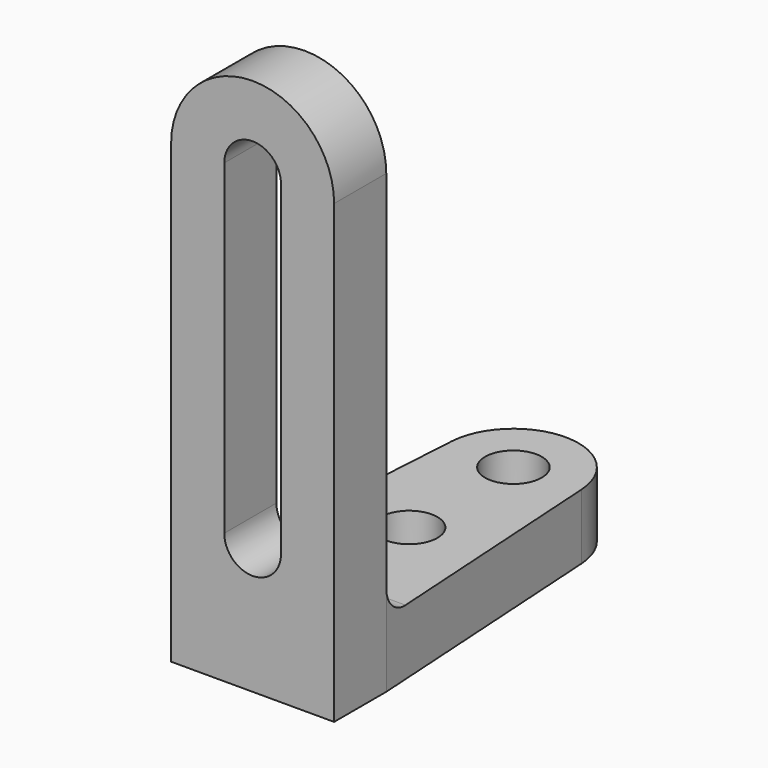
from build123d import *

# Parameters (mm, degrees)
SKETCH_R     = 2.175
PAD_DEPTH    = 5
PAD001_DEPTH = 5
FILLET_R     = 2


with BuildPart() as part:
    # Sketch → Pad (new body)
    with BuildSketch(Plane.XY):
        with BuildLine():
            Line((-6.25, 0), (6.25, 0))
            Line((4.990412, 20.309504), (6.25, 0))
            ThreePointArc((4.990412, 20.309504), (0, 25), (-4.990412, 20.309504))
            Line((-4.990412, 20.309504), (-6.25, 0))
        make_face()
        with Locations((0, 20)):
            Circle(SKETCH_R, mode=Mode.SUBTRACT)
        with Locations((0, 10)):
            Circle(SKETCH_R, mode=Mode.SUBTRACT)
    extrude(amount=PAD_DEPTH)

    # Sketch001 (on Face3 of Pad) → Pad001 (join)
    with BuildSketch(Plane.XZ):
        with BuildLine():
            Line((6.25, 5), (6.25, 35))
            ThreePointArc((6.25, 35), (0, 41.25), (-6.25, 35))
            Line((-6.25, 5), (-6.25, 35))
            Line((-6.25, 5), (-6.25, 0))
            Line((-6.25, 0), (6.25, 0))
            Line((6.25, 0), (6.25, 5))
        make_face()
        with BuildLine():
            ThreePointArc((2.175, 35), (1.8e-05, 37.175), (-2.175, 35.000036))
            Line((-2.175, 10), (-2.175, 35.000036))
            ThreePointArc((-2.175, 10), (0, 7.825), (2.175, 10))
            Line((2.175, 35), (2.175, 10))
        make_face(mode=Mode.SUBTRACT)
    extrude(amount=PAD001_DEPTH)

    # Fillet
    fillet_edges = [part.edges().sort_by_distance(p)[0] for p in [
        (0, 0, 5),
    ]]
    fillet(fillet_edges, radius=FILLET_R)


solid = part.part
